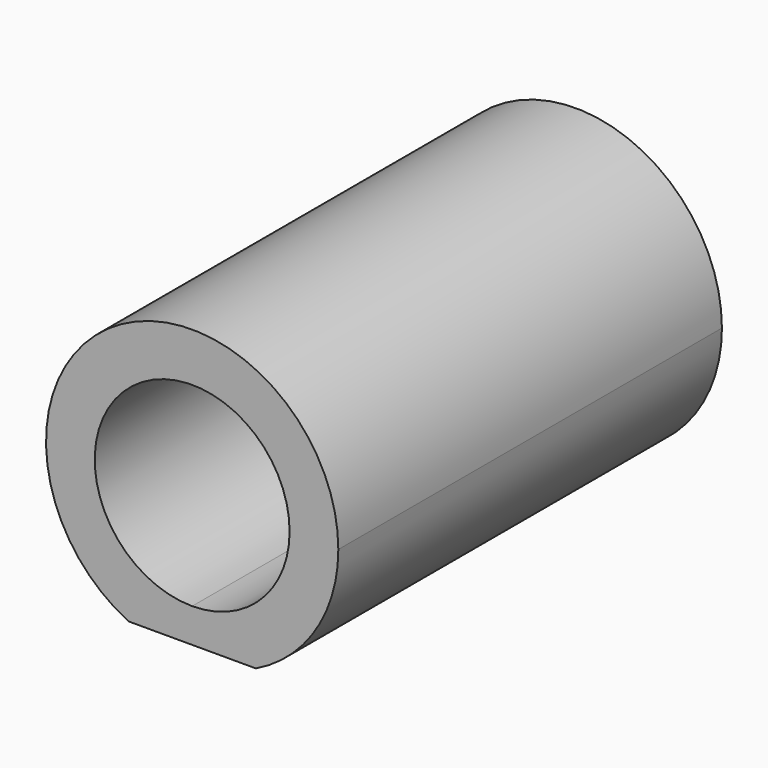
from build123d import *

# Parameters (mm, degrees)
F1_DEPTH = 25
F2_W     = 7.634899
F2_H     = 3.302
F2_W_2   = 7.225763
F3_DEPTH = 181.102


with BuildPart() as f1:
    # F0 (on Front) → F1 (new body)
    with BuildSketch(Plane.XZ):
        with BuildLine():
            ThreePointArc((7.62, 0), (-5.388154, 5.388154), (0, -7.62))
            ThreePointArc((0, -7.62), (5.388154, -5.388154), (7.62, 0))
        make_face()
        with BuildLine():
            ThreePointArc((0, -5.08), (-3.592102, 3.592102), (5.08, 0))
            ThreePointArc((5.08, 0), (3.592102, -3.592102), (0, -5.08))
        make_face(mode=Mode.SUBTRACT)
    extrude(amount=F1_DEPTH)

    # F2 (on Front) → F3 (cut)
    with BuildSketch(Plane.XZ):
        with Locations((3.817449, -8.509)):
            Rectangle(F2_W, F2_H)
        with Locations((-3.612881, -8.509)):
            Rectangle(F2_W_2, F2_H)
    extrude(amount=F3_DEPTH, mode=Mode.SUBTRACT)


solid = f1.part
